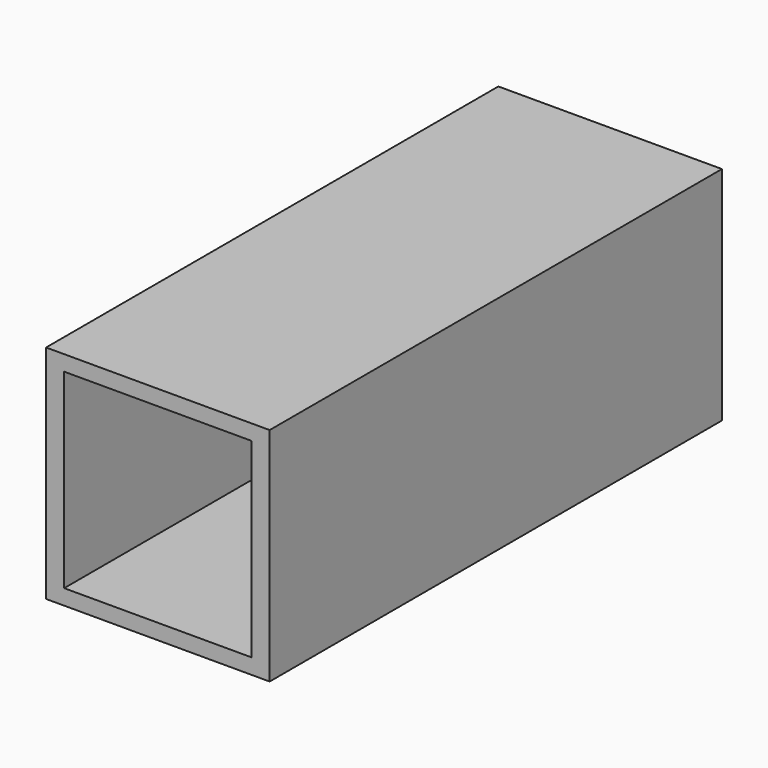
from build123d import *

# Parameters (mm, degrees)
F0_W     = 75.339884
F0_H     = 73.899612
F1_DEPTH = 190.5
F2_W     = 126.288324
F2_H     = 128.4495
F3_DEPTH = 482.6


with BuildPart() as f1:
    # F0 (on Front) → F1 (new body, symmetric)
    with BuildSketch(Plane.XZ):
        Polygon((0, 73.899612), (0, 0), (-75.339884, 0), (-75.339884, -74.606657), (75.339884, -74.606657), (75.339884, 74.606657), (-75.339884, 74.606657), (-75.339884, 73.899612), align=None)
        with Locations((-37.669942, 36.949806)):
            Rectangle(F0_W, F0_H)
    extrude(amount=F1_DEPTH, both=True)

    # F2 (on face) → F3 (cut)
    with BuildSketch(Plane.XZ.offset(190.5)):
        Rectangle(F2_W, F2_H)
    extrude(amount=-F3_DEPTH, mode=Mode.SUBTRACT)


solid = f1.part
